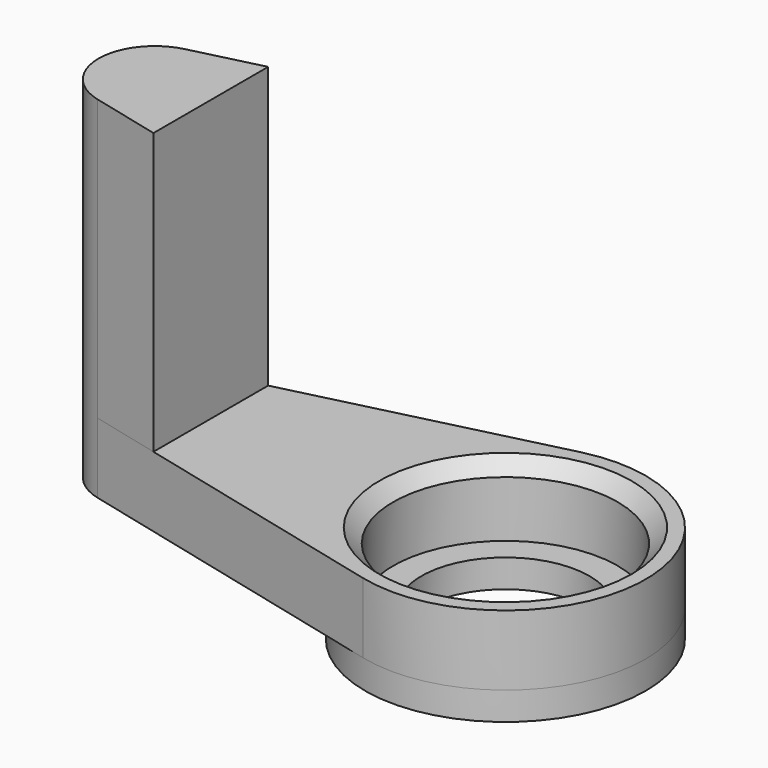
from build123d import *

# Parameters (mm, degrees)
SKETCH_R      = 8
PAD_DEPTH     = 5
PAD001_DEPTH  = 20
CHAMFER_SIZE  = 1
SKETCH002_R   = 10
SKETCH002_R_2 = 6
PAD002_DEPTH  = 2


with BuildPart() as part:
    # Sketch → Pad (new body)
    with BuildSketch(Plane.XY):
        with BuildLine():
            ThreePointArc((-2.4, -9.707729), (10, 0), (-2.4, 9.707729))
            Line((-25.96, 3.883092), (-2.4, 9.707729))
            ThreePointArc((-25.96, 3.883092), (-29, 0), (-25.96, -3.883092))
            Line((-2.4, -9.707729), (-25.96, -3.883092))
        make_face()
        Circle(SKETCH_R, mode=Mode.SUBTRACT)
    extrude(amount=PAD_DEPTH)

    # Sketch001 (on Face7 of Pad) → Pad001 (join)
    with BuildSketch(Plane.XY.offset(5)):
        with BuildLine():
            ThreePointArc((-25.96, 3.883092), (-29, 0), (-25.96, -3.883092))
            Line((-21, -5.109331), (-25.96, -3.883092))
            Line((-21, -5.109331), (-21, 5.109331))
            Line((-21, 5.109331), (-25.96, 3.883092))
        make_face()
    extrude(amount=PAD001_DEPTH)

    # Chamfer
    chamfer_edges = [part.edges().sort_by_distance(p)[0] for p in [
        (-8, 0, 5),
    ]]
    chamfer(chamfer_edges, length=CHAMFER_SIZE)

    # Sketch002 (on Face9 of Chamfer) → Pad002 (join)
    with BuildSketch(Plane(origin=(0, 0, 0), x_dir=(1, 0, 0), z_dir=(0, 0, -1))):
        Circle(SKETCH002_R)
        Circle(SKETCH002_R_2, mode=Mode.SUBTRACT)
    extrude(amount=PAD002_DEPTH)


solid = part.part
